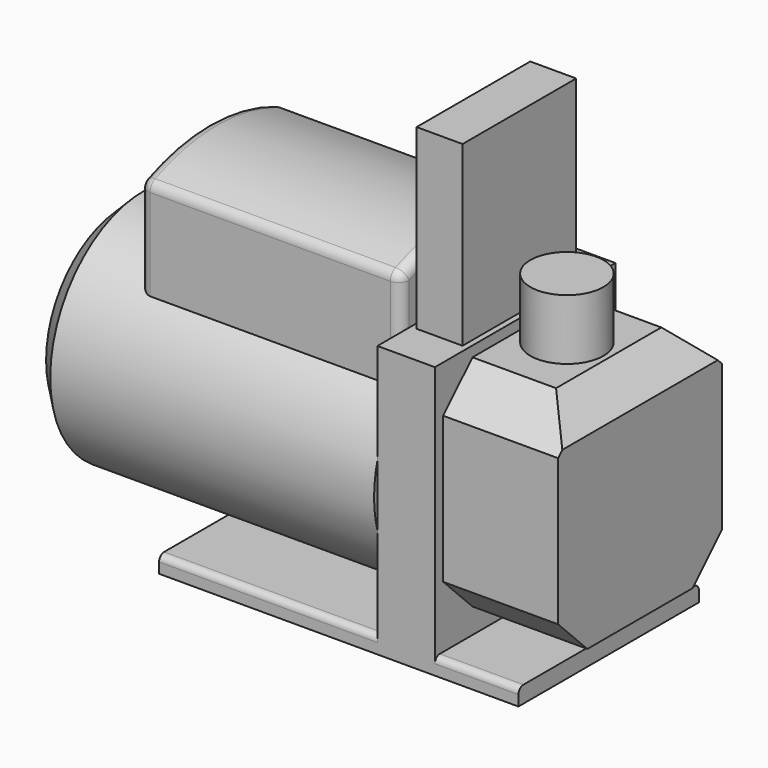
from build123d import *

# Parameters (mm, degrees)
F0_W      = 172
F0_H      = 108
F1_DEPTH  = 8
F2_W      = 27.5
F2_H      = 108
F3_DEPTH  = 122
F4_R      = 3
F6_DEPTH  = 55
F7_SIZE   = 15
F8_R      = 17.5
F9_DEPTH  = 29
F10_R     = 56
F11_DEPTH = 165
F12_SIZE  = 10
F14_DEPTH = 125
F15_R     = 5
F16_W     = 22
F16_H     = 68
F17_DEPTH = 85


with BuildPart() as f1:
    # F0 (on Top) → F1 (new body)
    with BuildSketch(Plane.XY):
        with Locations((86, 54)):
            Rectangle(F0_W, F0_H)
    extrude(amount=F1_DEPTH)

    # F2 (on face) → F3 (join)
    with BuildSketch(Plane.XY.offset(8)):
        with Locations((118.25, 54)):
            Rectangle(F2_W, F2_H)
    extrude(amount=F3_DEPTH)

    # F4
    f4_edges = [f1.edges().sort_by_distance(p)[0] for p in [
        (52.25, 0, 8),
        (52.25, 108, 8),
        (152, 108, 8),
        (152, 0, 8),
    ]]
    fillet(f4_edges, radius=F4_R)

    # F5 (on face) → F6 (join)
    with BuildSketch(Plane.YZ.offset(132)):
        Polygon((22.5, 20), (85.5, 20), (103, 37.5), (103, 107.5), (85.5, 125), (22.5, 125), (5, 107.5), (5, 37.5), align=None)
    extrude(amount=F6_DEPTH)

    # F7
    f7_edges = [f1.edges().sort_by_distance(p)[0] for p in [
        (187, 54, 125),
    ]]
    chamfer(f7_edges, length=F7_SIZE)

    # F8 (on face) → F9 (join)
    with BuildSketch(Plane.XY.offset(125)):
        with Locations((152, 54)):
            Circle(F8_R)
    extrude(amount=F9_DEPTH)

    # F10 (on face) → F11 (join)
    with BuildSketch(Plane(origin=(104.5, 0, 0), x_dir=(0, -1, 0), z_dir=(-1, 0, 0))):
        with Locations((-54, 67)):
            Circle(F10_R)
    extrude(amount=F11_DEPTH)

    # F12
    f12_edges = [f1.edges().sort_by_distance(p)[0] for p in [
        (-60.5, 110, 67),
    ]]
    chamfer(f12_edges, length=F12_SIZE)

    # F16 (on face) → F17 (join)
    with BuildSketch(Plane.XY.offset(130)):
        with Locations((118.25, 54)):
            Rectangle(F16_W, F16_H)
    extrude(amount=F17_DEPTH)


with BuildPart() as f14:
    # F13 (on face) → F14 (new body)
    with BuildSketch(Plane(origin=(104.5, 0, 0), x_dir=(0, -1, 0), z_dir=(-1, 0, 0))):
        with BuildLine():
            Line((-14, 106.1918358845), (-14, 153.1684396981))
            ThreePointArc((-14, 153.1684396981), (-54, 162), (-94, 153.1684396981))
            Line((-94, 153.1684396981), (-94, 106.1918358845))
            ThreePointArc((-94, 106.1918358845), (-54, 123), (-14, 106.1918358845))
        make_face()
    extrude(amount=F14_DEPTH)

    # F15
    f15_edges = [f14.edges().sort_by_distance(p)[0] for p in [
        (42, 14, 153.16844),
        (-20.5, 54, 162),
        (-20.5, 14, 129.680138),
        (-20.5, 94, 129.680138),
        (104.5, 54, 162),
        (42, 94, 153.16844),
        (104.5, 14, 129.680138),
        (104.5, 94, 129.680138),
    ]]
    fillet(f15_edges, radius=F15_R)


solid = Compound([f1.part, f14.part])
